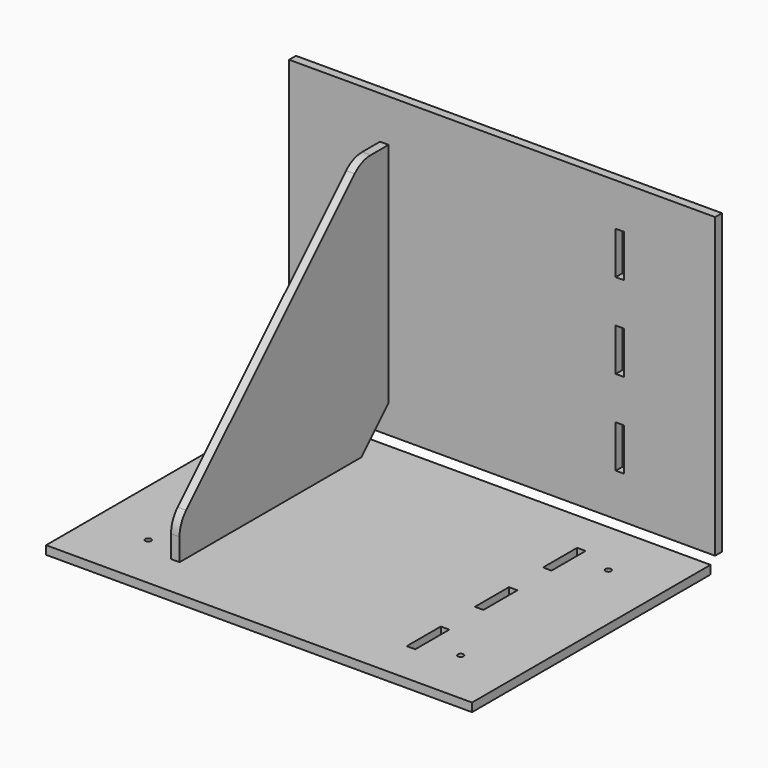
from build123d import *

# Parameters (mm, degrees)
F0_W     = 150
F0_H     = 105
F0_W_2   = 3
F0_H_2   = 15
F1_DEPTH = 3
F6_DEPTH = 3
F7_R     = 10
F8_R     = 1
F9_DEPTH = 25


with BuildPart() as f1:
    # F0 (on Top) → F1 (new body)
    with BuildSketch(Plane.XY):
        with Locations((0, -57.5)):
            Rectangle(F0_W, F0_H)
        with Locations((-41.5, -87.5)):
            Rectangle(F0_W_2, F0_H_2, mode=Mode.SUBTRACT)
        with Locations((41.5, -87.5)):
            Rectangle(F0_W_2, F0_H_2, mode=Mode.SUBTRACT)
        with Locations((-41.5, -57.5)):
            Rectangle(F0_W_2, F0_H_2, mode=Mode.SUBTRACT)
        with Locations((-41.5, -27.5)):
            Rectangle(F0_W_2, F0_H_2, mode=Mode.SUBTRACT)
        with Locations((41.5, -57.5)):
            Rectangle(F0_W_2, F0_H_2, mode=Mode.SUBTRACT)
        with Locations((41.5, -27.5)):
            Rectangle(F0_W_2, F0_H_2, mode=Mode.SUBTRACT)
    extrude(amount=F1_DEPTH)


with BuildPart() as f4_1:
    # F4: instance of F1
    add(f1.part.mirror(Plane(origin=(0, 0, 0), x_dir=(-1, 0, 0), z_dir=(0, 0.7071067812, 0.7071067812))))


with BuildPart() as f6:
    # F5 (on face) → F6 (new body)
    with BuildSketch(Plane.YZ.offset(-43)):
        Polygon((0, 80), (0, 95), (-15, 95), (-95, 15), (-95, 0), (-80, 0), (-80, 3), (-65, 3), (-65, 0), (-50, 0), (-50, 3), (-35, 3), (-35, 0), (-20, 0), (-20, 3), (-15, 3), (-3, 15), (-3, 20), (0, 20), (0, 35), (-3, 35), (-3, 50), (0, 50), (0, 65), (-3, 65), (-3, 80), align=None)
    extrude(amount=F6_DEPTH)

    # F7
    f7_edges = [f6.edges().sort_by_distance(p)[0] for p in [
        (-41.5, -15, 95),
        (-41.5, -95, 15),
    ]]
    fillet(f7_edges, radius=F7_R)


with BuildPart() as f1_1:
    add(f1.part)

    # F8 (on face) → F9 (cut)
    with BuildSketch(Plane.XY.offset(3)):
        with Locations((-55, -25)):
            Circle(F8_R)
        with Locations((-55, -90)):
            Circle(F8_R)
        with Locations((55, -25)):
            Circle(F8_R)
        with Locations((55, -90)):
            Circle(F8_R)
    extrude(amount=-F9_DEPTH, mode=Mode.SUBTRACT)


solid = Compound([f4_1.part, f6.part, f1_1.part])
